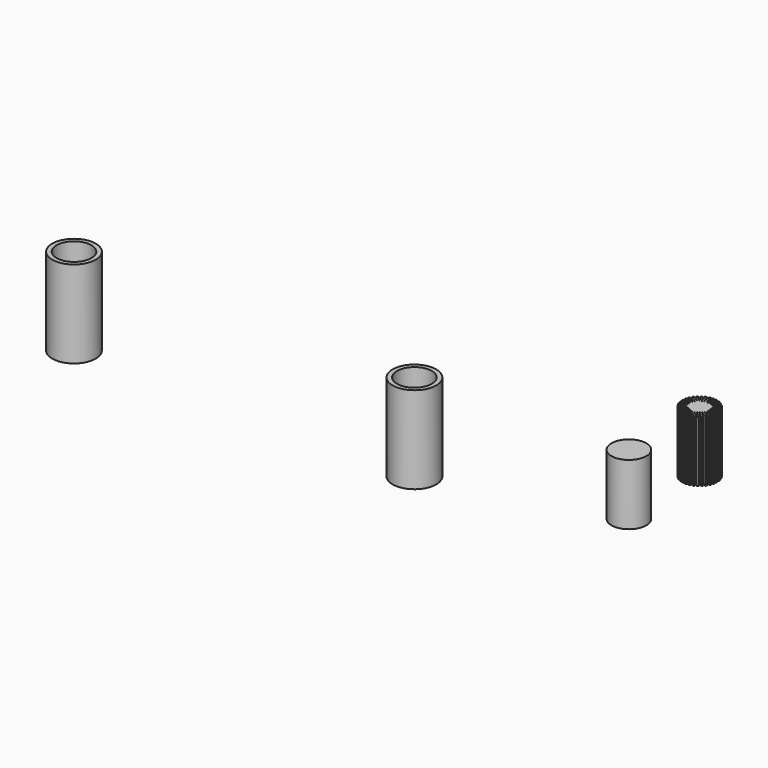
from build123d import *

# Parameters (mm, degrees)
CYLINDER_R                                     = 4
CYLINDER_DEPTH                                 = 14
TUBE_R                                         = 5
TUBE_R_2                                       = 4
TUBE_DEPTH                                     = 20
FACE_R                                         = 4
FACE_R_2                                       = 3
EXTRUSION_DEPTH                                = 2
CYLINDER002_R                                  = 3
CYLINDER002_DEPTH                              = 10
CYLINDER001_R                                  = 4
CYLINDER001_DEPTH                              = 4
TUBE001_R                                      = 5
TUBE001_R_2                                    = 4
TUBE001_DEPTH                                  = 20
CIRCLE_R                                       = 4
EXTRUSION017_DEPTH                             = 23.367784
CIRCLE001_R                                    = 11.743192
EXTRUSION018_DEPTH                             = 23.367784
RECTANGLE002_W                                 = 10
RECTANGLE002_H                                 = 0.4
EXTRUSION007_DEPTH                             = 14
RECTANGLE011_AS_DRAWN_W                        = 10
RECTANGLE011_AS_DRAWN_H                        = 0.4
EXTRUSION008_DEPTH                             = 14
EXTRUSION008_ONTO_RECTANGLE011_ROLL_ANGLE      = 180
EXTRUSION008_ONTO_RECTANGLE011_PLACEMENT_ANGLE = 78.75
RECTANGLE006_AS_DRAWN_W                        = 10
RECTANGLE006_AS_DRAWN_H                        = 0.4
EXTRUSION009_DEPTH                             = 14
EXTRUSION009_ONTO_RECTANGLE006_ROLL_ANGLE      = 180
EXTRUSION009_ONTO_RECTANGLE006_PLACEMENT_ANGLE = 67.5
RECTANGLE010_AS_DRAWN_W                        = 10
RECTANGLE010_AS_DRAWN_H                        = 0.4
EXTRUSION010_DEPTH                             = 14
EXTRUSION010_ONTO_RECTANGLE010_ROLL_ANGLE      = 180
EXTRUSION010_ONTO_RECTANGLE010_PLACEMENT_ANGLE = 56.25
RECTANGLE003_AS_DRAWN_W                        = 10
RECTANGLE003_AS_DRAWN_H                        = 0.4
EXTRUSION011_DEPTH                             = 14
EXTRUSION011_ONTO_RECTANGLE003_ROLL_ANGLE      = 180
EXTRUSION011_ONTO_RECTANGLE003_PLACEMENT_ANGLE = 45
RECTANGLE009_AS_DRAWN_W                        = 10
RECTANGLE009_AS_DRAWN_H                        = 0.4
EXTRUSION016_DEPTH                             = 14
EXTRUSION016_ONTO_RECTANGLE009_ROLL_ANGLE      = 180
EXTRUSION016_ONTO_RECTANGLE009_PLACEMENT_ANGLE = 33.75
RECTANGLE005_AS_DRAWN_W                        = 10
RECTANGLE005_AS_DRAWN_H                        = 0.4
EXTRUSION015_DEPTH                             = 14
EXTRUSION015_ONTO_RECTANGLE005_ROLL_ANGLE      = 180
EXTRUSION015_ONTO_RECTANGLE005_PLACEMENT_ANGLE = 22.5
RECTANGLE015_AS_DRAWN_W                        = 10
RECTANGLE015_AS_DRAWN_H                        = 0.4
EXTRUSION014_DEPTH                             = 14
EXTRUSION014_ONTO_RECTANGLE015_ROLL_ANGLE      = 180
EXTRUSION014_ONTO_RECTANGLE015_PLACEMENT_ANGLE = 11.25
RECTANGLE017_W                                 = 10
RECTANGLE017_H                                 = 0.4
EXTRUSION013_DEPTH                             = 14
RECTANGLE016_AS_DRAWN_W                        = 10
RECTANGLE016_AS_DRAWN_H                        = 0.4
EXTRUSION012_DEPTH                             = 14
EXTRUSION012_ONTO_RECTANGLE016_ROLL_ANGLE      = 180
EXTRUSION012_ONTO_RECTANGLE016_PLACEMENT_ANGLE = -11.25
RECTANGLE008_AS_DRAWN_W                        = 10
RECTANGLE008_AS_DRAWN_H                        = 0.4
EXTRUSION001_DEPTH                             = 14
EXTRUSION001_ONTO_RECTANGLE008_ROLL_ANGLE      = 180
EXTRUSION001_ONTO_RECTANGLE008_PLACEMENT_ANGLE = -22.5
RECTANGLE014_AS_DRAWN_W                        = 10
RECTANGLE014_AS_DRAWN_H                        = 0.4
EXTRUSION002_DEPTH                             = 14
EXTRUSION002_ONTO_RECTANGLE014_ROLL_ANGLE      = 180
EXTRUSION002_ONTO_RECTANGLE014_PLACEMENT_ANGLE = 146.25
RECTANGLE004_AS_DRAWN_W                        = 10
RECTANGLE004_AS_DRAWN_H                        = 0.4
EXTRUSION003_DEPTH                             = 14
EXTRUSION003_ONTO_RECTANGLE004_ROLL_ANGLE      = 180
EXTRUSION003_ONTO_RECTANGLE004_PLACEMENT_ANGLE = 135
RECTANGLE013_AS_DRAWN_W                        = 10
RECTANGLE013_AS_DRAWN_H                        = 0.4
EXTRUSION004_DEPTH                             = 14
EXTRUSION004_ONTO_RECTANGLE013_ROLL_ANGLE      = 180
EXTRUSION004_ONTO_RECTANGLE013_PLACEMENT_ANGLE = 123.75
RECTANGLE007_AS_DRAWN_W                        = 10
RECTANGLE007_AS_DRAWN_H                        = 0.4
EXTRUSION005_DEPTH                             = 14
EXTRUSION005_ONTO_RECTANGLE007_ROLL_ANGLE      = 180
EXTRUSION005_ONTO_RECTANGLE007_PLACEMENT_ANGLE = 112.5
RECTANGLE012_AS_DRAWN_W                        = 10
RECTANGLE012_AS_DRAWN_H                        = 0.4
EXTRUSION006_DEPTH                             = 14
EXTRUSION006_ONTO_RECTANGLE012_ROLL_ANGLE      = 180
EXTRUSION006_ONTO_RECTANGLE012_PLACEMENT_ANGLE = 101.25


with BuildPart() as cylinder:
    # Cylinder → Cylinder (new body)
    with BuildSketch(Plane(origin=(83.01326, 17.112599, -4), x_dir=(1, 0, 0), z_dir=(0, 0, 1))):
        Circle(CYLINDER_R)
    extrude(amount=CYLINDER_DEPTH)


with BuildPart() as tube:
    # Tube → Tube (new body)
    with BuildSketch(Plane(origin=(-30.633781, 0, 0), x_dir=(1, 0, 0), z_dir=(0, 0, 1))):
        Circle(TUBE_R)
        Circle(TUBE_R_2, mode=Mode.SUBTRACT)
    extrude(amount=TUBE_DEPTH)


with BuildPart() as cone:
    # Cone → Cone (revolve)
    with BuildSketch(Plane(origin=(25.92169, 0, 0), x_dir=(1, 0, 0), z_dir=(0, -1, 0))):
        Polygon((0, 0), (4, 0), (3, 2), (0, 2), align=None)
    revolve(axis=Axis((25.92169, 0, 0), (0, 0, 1)))


with BuildPart() as cone001:
    # Cone001 → Cone001 (revolve)
    with BuildSketch(Plane(origin=(25.92169, 0, 4), x_dir=(1, 0, 0), z_dir=(0, -1, 0))):
        Polygon((0, 0), (3, 0), (4, 2), (0, 2), align=None)
    revolve(axis=Axis((25.92169, 0, 4), (0, 0, 1)))


with BuildPart() as extrusion:
    # Face → Extrusion (new body)
    with BuildSketch(Plane(origin=(25.92169, 0, 4), x_dir=(0, 1, 0), z_dir=(0, 0, 1))):
        Circle(FACE_R)
        Circle(FACE_R_2, mode=Mode.SUBTRACT)
    extrude(amount=EXTRUSION_DEPTH)


with BuildPart() as cylinder002:
    # Cylinder002 → Cylinder002 (new body)
    with BuildSketch(Plane(origin=(25.92169, 0, 0), x_dir=(1, 0, 0), z_dir=(0, 0, 1))):
        Circle(CYLINDER002_R)
    extrude(amount=CYLINDER002_DEPTH)


with BuildPart() as cut002001:
    # Cylinder001 → Cylinder001 (new body)
    with BuildSketch(Plane(origin=(25.92169, 0, 0), x_dir=(1, 0, 0), z_dir=(0, 0, 1))):
        Circle(CYLINDER001_R)
    extrude(amount=CYLINDER001_DEPTH)

    # Cut: cut Cylinder002
    add(cylinder002.part, mode=Mode.SUBTRACT)

    # Fusion: union Extrusion
    add(extrusion.part)

    # Cut001: cut Cone001
    add(cone001.part, mode=Mode.SUBTRACT)

    # Cut002: cut Cone
    add(cone.part, mode=Mode.SUBTRACT)


with BuildPart() as cut002001_1:
    # Cut002001 placement: moved
    add(cut002001.part.moved(Location((21.563461, 0, 7))))


with BuildPart() as fusion001:
    # Tube001 → Tube001 (new body)
    with BuildSketch(Plane(origin=(47.485151, 0, 0), x_dir=(1, 0, 0), z_dir=(0, 0, 1))):
        Circle(TUBE001_R)
        Circle(TUBE001_R_2, mode=Mode.SUBTRACT)
    extrude(amount=TUBE001_DEPTH)

    # Fusion001: union Cut002001
    add(cut002001_1.part)


with BuildPart() as extrusion017:
    # Circle → Extrusion017 (new body)
    with BuildSketch(Plane(origin=(82.467959, 38.071618, 10), x_dir=(1, 0, 0), z_dir=(0, 0, 1))):
        Circle(CIRCLE_R)
    extrude(amount=-EXTRUSION017_DEPTH)


with BuildPart() as cut002002:
    # Circle001 → Extrusion018 (new body)
    with BuildSketch(Plane(origin=(82.467959, 38.071618, 10), x_dir=(1, 0, 0), z_dir=(0, 0, 1))):
        Circle(CIRCLE001_R)
    extrude(amount=-EXTRUSION018_DEPTH)

    # Cut002002: cut Extrusion017
    add(extrusion017.part, mode=Mode.SUBTRACT)


with BuildPart() as extrusion007:
    # Rectangle002 → Extrusion007 (new body)
    with BuildSketch(Plane(origin=(82.267959, 33.071618, 10), x_dir=(0, 1, 0), z_dir=(0, 0, -1))):
        with Locations((5, 0.2)):
            Rectangle(RECTANGLE002_W, RECTANGLE002_H)
    extrude(amount=EXTRUSION007_DEPTH)


with BuildPart() as extrusion008:
    # Rectangle011 as drawn → Extrusion008 (new)
    with BuildSketch(Plane.XY):
        with Locations((5, 0.2)):
            Rectangle(RECTANGLE011_AS_DRAWN_W, RECTANGLE011_AS_DRAWN_H)
    extrude(amount=EXTRUSION008_DEPTH)


with BuildPart() as extrusion008_1:
    # Extrusion008 onto Rectangle011 roll: moved
    add(extrusion008.part.rotate(Axis((0, 0, 0), (1, 0, 0)), EXTRUSION008_ONTO_RECTANGLE011_ROLL_ANGLE))


with BuildPart() as extrusion008_2:
    # Extrusion008 onto Rectangle011 placement: moved
    add(extrusion008_1.part.moved(Location((81.296351, 33.20671, 10))).rotate(Axis((81.296351, 33.20671, 10), (0, 0, 1)), EXTRUSION008_ONTO_RECTANGLE011_PLACEMENT_ANGLE))


with BuildPart() as extrusion009:
    # Rectangle006 as drawn → Extrusion009 (new)
    with BuildSketch(Plane.XY):
        with Locations((5, 0.2)):
            Rectangle(RECTANGLE006_AS_DRAWN_W, RECTANGLE006_AS_DRAWN_H)
    extrude(amount=EXTRUSION009_DEPTH)


with BuildPart() as extrusion009_1:
    # Extrusion009 onto Rectangle006 roll: moved
    add(extrusion009.part.rotate(Axis((0, 0, 0), (1, 0, 0)), EXTRUSION009_ONTO_RECTANGLE006_ROLL_ANGLE))


with BuildPart() as extrusion009_2:
    # Extrusion009 onto Rectangle006 placement: moved
    add(extrusion009_1.part.moved(Location((80.369766, 33.528757, 10))).rotate(Axis((80.369766, 33.528757, 10), (0, 0, 1)), EXTRUSION009_ONTO_RECTANGLE006_PLACEMENT_ANGLE))


with BuildPart() as extrusion010:
    # Rectangle010 as drawn → Extrusion010 (new)
    with BuildSketch(Plane.XY):
        with Locations((5, 0.2)):
            Rectangle(RECTANGLE010_AS_DRAWN_W, RECTANGLE010_AS_DRAWN_H)
    extrude(amount=EXTRUSION010_DEPTH)


with BuildPart() as extrusion010_1:
    # Extrusion010 onto Rectangle010 roll: moved
    add(extrusion010.part.rotate(Axis((0, 0, 0), (1, 0, 0)), EXTRUSION010_ONTO_RECTANGLE010_ROLL_ANGLE))


with BuildPart() as extrusion010_2:
    # Extrusion010 onto Rectangle010 placement: moved
    add(extrusion010_1.part.moved(Location((79.523814, 34.025384, 10))).rotate(Axis((79.523814, 34.025384, 10), (0, 0, 1)), EXTRUSION010_ONTO_RECTANGLE010_PLACEMENT_ANGLE))


with BuildPart() as extrusion011:
    # Rectangle003 as drawn → Extrusion011 (new)
    with BuildSketch(Plane.XY):
        with Locations((5, 0.2)):
            Rectangle(RECTANGLE003_AS_DRAWN_W, RECTANGLE003_AS_DRAWN_H)
    extrude(amount=EXTRUSION011_DEPTH)


with BuildPart() as extrusion011_1:
    # Extrusion011 onto Rectangle003 roll: moved
    add(extrusion011.part.rotate(Axis((0, 0, 0), (1, 0, 0)), EXTRUSION011_ONTO_RECTANGLE003_ROLL_ANGLE))


with BuildPart() as extrusion011_2:
    # Extrusion011 onto Rectangle003 placement: moved
    add(extrusion011_1.part.moved(Location((78.791004, 34.677505, 10))).rotate(Axis((78.791004, 34.677505, 10), (0, 0, 1)), EXTRUSION011_ONTO_RECTANGLE003_PLACEMENT_ANGLE))


with BuildPart() as extrusion016:
    # Rectangle009 as drawn → Extrusion016 (new)
    with BuildSketch(Plane.XY):
        with Locations((5, 0.2)):
            Rectangle(RECTANGLE009_AS_DRAWN_W, RECTANGLE009_AS_DRAWN_H)
    extrude(amount=EXTRUSION016_DEPTH)


with BuildPart() as extrusion016_1:
    # Extrusion016 onto Rectangle009 roll: moved
    add(extrusion016.part.rotate(Axis((0, 0, 0), (1, 0, 0)), EXTRUSION016_ONTO_RECTANGLE009_ROLL_ANGLE))


with BuildPart() as extrusion016_2:
    # Extrusion016 onto Rectangle009 placement: moved
    add(extrusion016_1.part.moved(Location((78.199497, 35.460061, 10))).rotate(Axis((78.199497, 35.460061, 10), (0, 0, 1)), EXTRUSION016_ONTO_RECTANGLE009_PLACEMENT_ANGLE))


with BuildPart() as extrusion015:
    # Rectangle005 as drawn → Extrusion015 (new)
    with BuildSketch(Plane.XY):
        with Locations((5, 0.2)):
            Rectangle(RECTANGLE005_AS_DRAWN_W, RECTANGLE005_AS_DRAWN_H)
    extrude(amount=EXTRUSION015_DEPTH)


with BuildPart() as extrusion015_1:
    # Extrusion015 onto Rectangle005 roll: moved
    add(extrusion015.part.rotate(Axis((0, 0, 0), (1, 0, 0)), EXTRUSION015_ONTO_RECTANGLE005_ROLL_ANGLE))


with BuildPart() as extrusion015_2:
    # Extrusion015 onto Rectangle005 placement: moved
    add(extrusion015_1.part.moved(Location((77.772025, 36.342977, 10))).rotate(Axis((77.772025, 36.342977, 10), (0, 0, 1)), EXTRUSION015_ONTO_RECTANGLE005_PLACEMENT_ANGLE))


with BuildPart() as extrusion014:
    # Rectangle015 as drawn → Extrusion014 (new)
    with BuildSketch(Plane.XY):
        with Locations((5, 0.2)):
            Rectangle(RECTANGLE015_AS_DRAWN_W, RECTANGLE015_AS_DRAWN_H)
    extrude(amount=EXTRUSION014_DEPTH)


with BuildPart() as extrusion014_1:
    # Extrusion014 onto Rectangle015 roll: moved
    add(extrusion014.part.rotate(Axis((0, 0, 0), (1, 0, 0)), EXTRUSION014_ONTO_RECTANGLE015_ROLL_ANGLE))


with BuildPart() as extrusion014_2:
    # Extrusion014 onto Rectangle015 placement: moved
    add(extrusion014_1.part.moved(Location((77.525015, 37.292323, 10))).rotate(Axis((77.525015, 37.292323, 10), (0, 0, 1)), EXTRUSION014_ONTO_RECTANGLE015_PLACEMENT_ANGLE))


with BuildPart() as extrusion013:
    # Rectangle017 → Extrusion013 (new body)
    with BuildSketch(Plane(origin=(77.467959, 38.271618, 10), x_dir=(1, 0, 0), z_dir=(0, 0, -1))):
        with Locations((5, 0.2)):
            Rectangle(RECTANGLE017_W, RECTANGLE017_H)
    extrude(amount=EXTRUSION013_DEPTH)


with BuildPart() as extrusion012:
    # Rectangle016 as drawn → Extrusion012 (new)
    with BuildSketch(Plane.XY):
        with Locations((5, 0.2)):
            Rectangle(RECTANGLE016_AS_DRAWN_W, RECTANGLE016_AS_DRAWN_H)
    extrude(amount=EXTRUSION012_DEPTH)


with BuildPart() as extrusion012_1:
    # Extrusion012 onto Rectangle016 roll: moved
    add(extrusion012.part.rotate(Axis((0, 0, 0), (1, 0, 0)), EXTRUSION012_ONTO_RECTANGLE016_ROLL_ANGLE))


with BuildPart() as extrusion012_2:
    # Extrusion012 onto Rectangle016 placement: moved
    add(extrusion012_1.part.moved(Location((77.603051, 39.243227, 10))).rotate(Axis((77.603051, 39.243227, 10), (0, 0, 1)), EXTRUSION012_ONTO_RECTANGLE016_PLACEMENT_ANGLE))


with BuildPart() as extrusion001:
    # Rectangle008 as drawn → Extrusion001 (new)
    with BuildSketch(Plane.XY):
        with Locations((5, 0.2)):
            Rectangle(RECTANGLE008_AS_DRAWN_W, RECTANGLE008_AS_DRAWN_H)
    extrude(amount=EXTRUSION001_DEPTH)


with BuildPart() as extrusion001_1:
    # Extrusion001 onto Rectangle008 roll: moved
    add(extrusion001.part.rotate(Axis((0, 0, 0), (1, 0, 0)), EXTRUSION001_ONTO_RECTANGLE008_ROLL_ANGLE))


with BuildPart() as extrusion001_2:
    # Extrusion001 onto Rectangle008 placement: moved
    add(extrusion001_1.part.moved(Location((77.925098, 40.169811, 10))).rotate(Axis((77.925098, 40.169811, 10), (0, 0, 1)), EXTRUSION001_ONTO_RECTANGLE008_PLACEMENT_ANGLE))


with BuildPart() as extrusion002:
    # Rectangle014 as drawn → Extrusion002 (new)
    with BuildSketch(Plane.XY):
        with Locations((5, 0.2)):
            Rectangle(RECTANGLE014_AS_DRAWN_W, RECTANGLE014_AS_DRAWN_H)
    extrude(amount=EXTRUSION002_DEPTH)


with BuildPart() as extrusion002_1:
    # Extrusion002 onto Rectangle014 roll: moved
    add(extrusion002.part.rotate(Axis((0, 0, 0), (1, 0, 0)), EXTRUSION002_ONTO_RECTANGLE014_ROLL_ANGLE))


with BuildPart() as extrusion002_2:
    # Extrusion002 onto Rectangle014 placement: moved
    add(extrusion002_1.part.moved(Location((86.514193, 35.127473, 10))).rotate(Axis((86.514193, 35.127473, 10), (0, 0, 1)), EXTRUSION002_ONTO_RECTANGLE014_PLACEMENT_ANGLE))


with BuildPart() as extrusion003:
    # Rectangle004 as drawn → Extrusion003 (new)
    with BuildSketch(Plane.XY):
        with Locations((5, 0.2)):
            Rectangle(RECTANGLE004_AS_DRAWN_W, RECTANGLE004_AS_DRAWN_H)
    extrude(amount=EXTRUSION003_DEPTH)


with BuildPart() as extrusion003_1:
    # Extrusion003 onto Rectangle004 roll: moved
    add(extrusion003.part.rotate(Axis((0, 0, 0), (1, 0, 0)), EXTRUSION003_ONTO_RECTANGLE004_ROLL_ANGLE))


with BuildPart() as extrusion003_2:
    # Extrusion003 onto Rectangle004 placement: moved
    add(extrusion003_1.part.moved(Location((85.862072, 34.394663, 10))).rotate(Axis((85.862072, 34.394663, 10), (0, 0, 1)), EXTRUSION003_ONTO_RECTANGLE004_PLACEMENT_ANGLE))


with BuildPart() as extrusion004:
    # Rectangle013 as drawn → Extrusion004 (new)
    with BuildSketch(Plane.XY):
        with Locations((5, 0.2)):
            Rectangle(RECTANGLE013_AS_DRAWN_W, RECTANGLE013_AS_DRAWN_H)
    extrude(amount=EXTRUSION004_DEPTH)


with BuildPart() as extrusion004_1:
    # Extrusion004 onto Rectangle013 roll: moved
    add(extrusion004.part.rotate(Axis((0, 0, 0), (1, 0, 0)), EXTRUSION004_ONTO_RECTANGLE013_ROLL_ANGLE))


with BuildPart() as extrusion004_2:
    # Extrusion004 onto Rectangle013 placement: moved
    add(extrusion004_1.part.moved(Location((85.079517, 33.803156, 10))).rotate(Axis((85.079517, 33.803156, 10), (0, 0, 1)), EXTRUSION004_ONTO_RECTANGLE013_PLACEMENT_ANGLE))


with BuildPart() as extrusion005:
    # Rectangle007 as drawn → Extrusion005 (new)
    with BuildSketch(Plane.XY):
        with Locations((5, 0.2)):
            Rectangle(RECTANGLE007_AS_DRAWN_W, RECTANGLE007_AS_DRAWN_H)
    extrude(amount=EXTRUSION005_DEPTH)


with BuildPart() as extrusion005_1:
    # Extrusion005 onto Rectangle007 roll: moved
    add(extrusion005.part.rotate(Axis((0, 0, 0), (1, 0, 0)), EXTRUSION005_ONTO_RECTANGLE007_ROLL_ANGLE))


with BuildPart() as extrusion005_2:
    # Extrusion005 onto Rectangle007 placement: moved
    add(extrusion005_1.part.moved(Location((84.196601, 33.375684, 10))).rotate(Axis((84.196601, 33.375684, 10), (0, 0, 1)), EXTRUSION005_ONTO_RECTANGLE007_PLACEMENT_ANGLE))


with BuildPart() as cut002003:
    # Rectangle012 as drawn → Extrusion006 (new)
    with BuildSketch(Plane.XY):
        with Locations((5, 0.2)):
            Rectangle(RECTANGLE012_AS_DRAWN_W, RECTANGLE012_AS_DRAWN_H)
    extrude(amount=EXTRUSION006_DEPTH)


with BuildPart() as cut002003_1:
    # Extrusion006 onto Rectangle012 roll: moved
    add(cut002003.part.rotate(Axis((0, 0, 0), (1, 0, 0)), EXTRUSION006_ONTO_RECTANGLE012_ROLL_ANGLE))


with BuildPart() as cut002003_2:
    # Extrusion006 onto Rectangle012 placement: moved
    add(cut002003_1.part.moved(Location((83.247254, 33.128673, 10))).rotate(Axis((83.247254, 33.128673, 10), (0, 0, 1)), EXTRUSION006_ONTO_RECTANGLE012_PLACEMENT_ANGLE))

    # Fusion002: union Extrusion007, Extrusion008, Extrusion009, Extrusion010, Extrusion011, Extrusion016, Extrusion015, Extrusion014, Extrusion013, Extrusion012, Extrusion001, Extrusion002, Extrusion003, Extrusion004, Extrusion005
    add(extrusion007.part)
    add(extrusion008_2.part)
    add(extrusion009_2.part)
    add(extrusion010_2.part)
    add(extrusion011_2.part)
    add(extrusion016_2.part)
    add(extrusion015_2.part)
    add(extrusion014_2.part)
    add(extrusion013.part)
    add(extrusion012_2.part)
    add(extrusion001_2.part)
    add(extrusion002_2.part)
    add(extrusion003_2.part)
    add(extrusion004_2.part)
    add(extrusion005_2.part)

    # Cut002003: cut Cut002002
    add(cut002002.part, mode=Mode.SUBTRACT)


solid = Compound([cylinder.part, tube.part, fusion001.part, cut002003_2.part])
